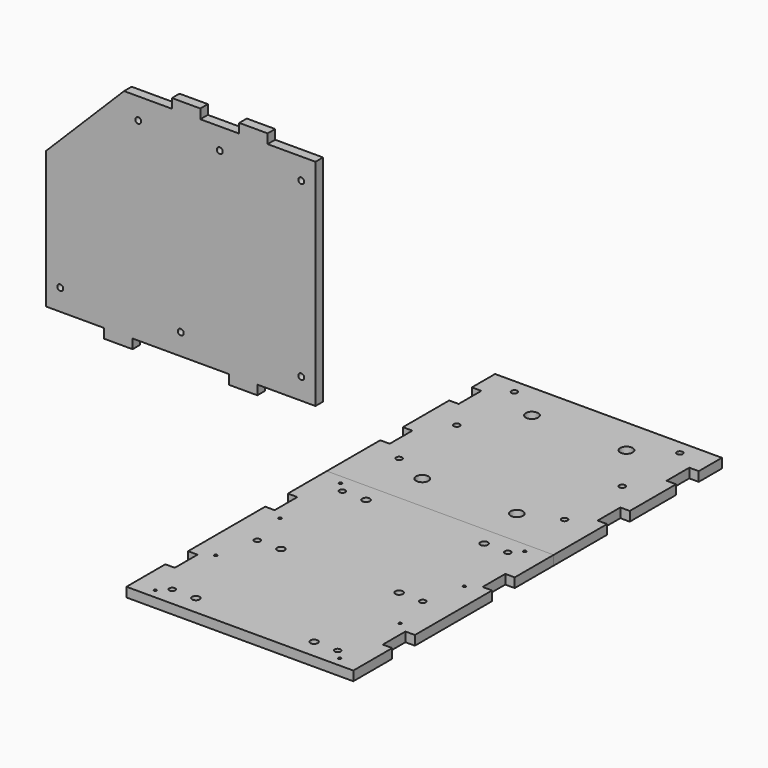
from build123d import *

# Parameters (mm, degrees)
F1_DEPTH  = 12.7
F2_W      = 304.8
F2_H      = 50.8
F3_DEPTH  = 12.7
F4_D      = 7.9375
F4_DEPTH  = 20.6502
F4_TIP    = 2.3846655818
F5_D      = 16.66748
F5_DEPTH  = 22.8149727273
F5_TIP    = 5.0074161752
F7_D      = 7.9375
F7_DEPTH  = 20.6629
F7_TIP    = 2.3846655818
F8_DEPTH  = 12.7
F9_D      = 3.7973
F9_DEPTH  = 19.0881
F9_TIP    = 1.1408240143
F10_D     = 7.9375
F10_DEPTH = 22.2631
F10_TIP   = 2.3846655818
F11_D     = 10.0838
F11_DEPTH = 22.2758
F11_TIP   = 3.0294791551


with BuildPart() as f1:
    # F0 (on Front) → F1 (new body)
    with BuildSketch(Plane.XZ):
        Polygon((-78.105, 76.2), (0, 76.2), (0, 365.125), (-64.3255, 365.125), (-64.3255, 377.825), (-102.4255, 377.825), (-102.4255, 365.125), (-154.7495, 365.125), (-154.7495, 377.825), (-192.8495, 377.825), (-192.8495, 365.125), (-257.175, 365.125), (-361.95, 260.35), (-361.95, 76.2), (-283.845, 76.2), (-283.845, 63.5), (-245.745, 63.5), (-245.745, 76.2), (-116.205, 76.2), (-116.205, 63.5), (-78.105, 63.5), align=None)
    extrude(amount=F1_DEPTH)

    # F7
    with Locations(Plane(origin=(0, 0, 0), x_dir=(1, 0, 0), z_dir=(0, 1, 0))):
        with Locations((-238.125, -336.55), (-19.05, -336.55), (-128.5875, -336.55), (-342.9, -104.775), (-180.975, -104.775), (-19.05, -104.775)):
            Hole(F7_D / 2, depth=F7_DEPTH)
            with Locations((0, 0, -(F7_DEPTH + F7_TIP / 2))):  # 118° drill point
                Cone(0, F7_D / 2, F7_TIP, mode=Mode.SUBTRACT)


with BuildPart() as f3:
    # F2 (on Top) → F3 (new body)
    with BuildSketch(Plane.XY):
        Polygon((25.4, 64.3255), (25.4, 25.4), (330.2, 25.4), (330.2, 64.3255), (317.5, 64.3255), (317.5, 102.4255), (330.2, 102.4255), (330.2, 180.1495), (317.5, 180.1495), (317.5, 218.2495), (330.2, 218.2495), (330.2, 257.175), (25.4, 257.175), (25.4, 218.2495), (38.1, 218.2495), (38.1, 180.1495), (25.4, 180.1495), (25.4, 102.4255), (38.1, 102.4255), (38.1, 64.3255), align=None)
        with Locations((177.8, 0)):
            Rectangle(F2_W, F2_H)
    extrude(amount=F3_DEPTH)

    # F4
    with Locations(Plane(origin=(0, 0, 0), x_dir=(1, 0, 0), z_dir=(0, 0, -1))):
        with Locations((66.675, -238.125), (66.675, -141.2875), (66.675, -44.45), (288.925, -238.125), (288.925, -141.2875), (288.925, -44.45)):
            Hole(F4_D / 2, depth=F4_DEPTH)
            with Locations((0, 0, -(F4_DEPTH + F4_TIP / 2))):  # 118° drill point
                Cone(0, F4_D / 2, F4_TIP, mode=Mode.SUBTRACT)

    # F5
    with Locations(Plane(origin=(0, 0, 0), x_dir=(1, 0, 0), z_dir=(0, 0, -1))):
        with Locations((114.3, -207.9625), (114.3, -23.8125), (241.3, -23.8125), (241.3, -207.9625)):
            Hole(F5_D / 2, depth=F5_DEPTH)
            with Locations((0, 0, -(F5_DEPTH + F5_TIP / 2))):  # 118° drill point
                Cone(0, F5_D / 2, F5_TIP, mode=Mode.SUBTRACT)


with BuildPart() as f8:
    # F6 (on Top) → F8 (new body)
    with BuildSketch(Plane.XY):
        Polygon((330.2, -25.4), (25.4, -25.4), (25.4, -90.805), (38.1, -90.805), (38.1, -128.905), (25.4, -128.905), (25.4, -258.445), (38.1, -258.445), (38.1, -296.545), (25.4, -296.545), (25.4, -361.95), (330.2, -361.95), (330.2, -296.545), (317.5, -296.545), (317.5, -258.445), (330.2, -258.445), (330.2, -128.905), (317.5, -128.905), (317.5, -90.805), (330.2, -90.805), align=None)
    extrude(amount=F8_DEPTH)

    # F9
    with Locations(Plane(origin=(0, 0, 0), x_dir=(1, 0, 0), z_dir=(0, 0, -1))):
        with Locations((301.625, 349.25), (301.625, 247.65), (301.625, 139.7), (301.625, 38.1), (53.975, 349.25), (53.975, 247.65), (53.975, 139.7), (53.975, 38.1)):
            Hole(F9_D / 2, depth=F9_DEPTH)
            with Locations((0, 0, -(F9_DEPTH + F9_TIP / 2))):  # 118° drill point
                Cone(0, F9_D / 2, F9_TIP, mode=Mode.SUBTRACT)

    # F10
    with Locations(Plane(origin=(0, 0, 0), x_dir=(1, 0, 0), z_dir=(0, 0, -1))):
        with Locations((288.925, 336.55), (288.925, 193.675), (288.925, 50.8), (66.675, 336.55), (66.675, 193.675), (66.675, 50.8)):
            Hole(F10_D / 2, depth=F10_DEPTH)
            with Locations((0, 0, -(F10_DEPTH + F10_TIP / 2))):  # 118° drill point
                Cone(0, F10_D / 2, F10_TIP, mode=Mode.SUBTRACT)

    # F11
    with Locations(Plane(origin=(0, 0, 0), x_dir=(1, 0, 0), z_dir=(0, 0, -1))):
        with Locations((257.175, 336.55), (257.175, 193.675), (98.425, 193.675), (98.425, 336.55), (98.425, 50.8), (257.175, 50.8)):
            Hole(F11_D / 2, depth=F11_DEPTH)
            with Locations((0, 0, -(F11_DEPTH + F11_TIP / 2))):  # 118° drill point
                Cone(0, F11_D / 2, F11_TIP, mode=Mode.SUBTRACT)


solid = Compound([f1.part, f3.part, f8.part])
